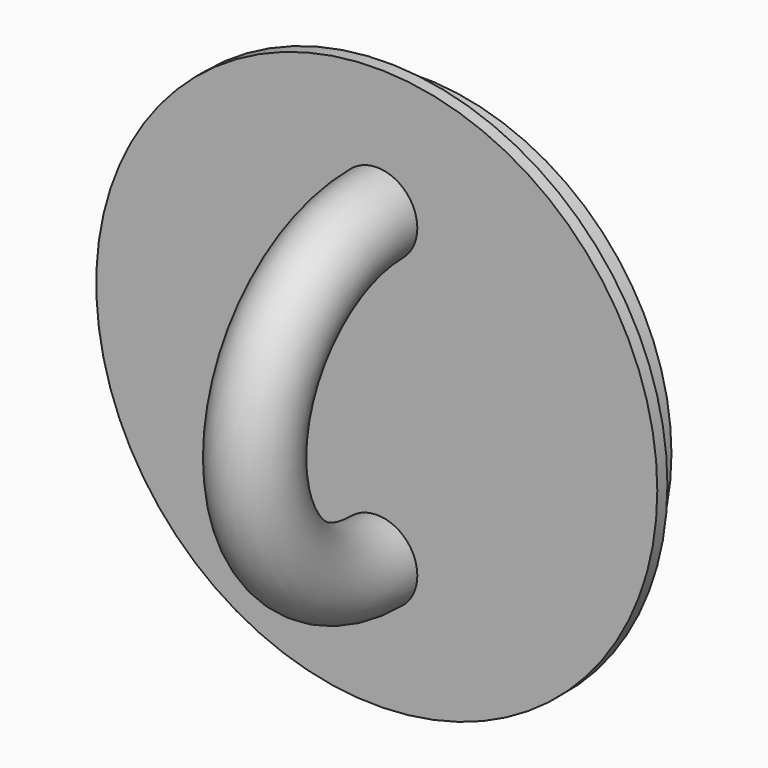
from build123d import *

# Parameters (mm, degrees)
SKETCH001_R         = 1.596485
REVOLUTION001_ANGLE = -180


with BuildPart() as part:
    # Sketch → Revolution (revolve)
    with BuildSketch(Plane.XY):
        with BuildLine():
            Line((0, 1.922073), (11.1, 1.922073))
            Line((11.1, 1.922073), (11.1, 2.422073))
            Line((11.1, 2.422073), (10.441024, 2.422073))
            ThreePointArc((9.9, 2.963097), (10.058462, 2.580535), (10.441024, 2.422073))
            Line((9.9, 2.963097), (9.9, 4.122073))
            Line((9.9, 4.122073), (0, 4.122073))
            Line((0, 4.122073), (0, 1.922073))
        make_face()
    revolve(axis=Axis((0, 0, 0), (0, 1, 0)))

    # Sketch001 (on Face3 of Revolution) → Revolution001 (revolve)
    with BuildSketch(Plane.XZ.offset(-1.922073)):
        with Locations((0.008299, -6.053004)):
            Circle(SKETCH001_R)
    revolve(axis=Axis((0, 1.922073, 0), (1, 0, 0)), revolution_arc=REVOLUTION001_ANGLE)


solid = part.part
